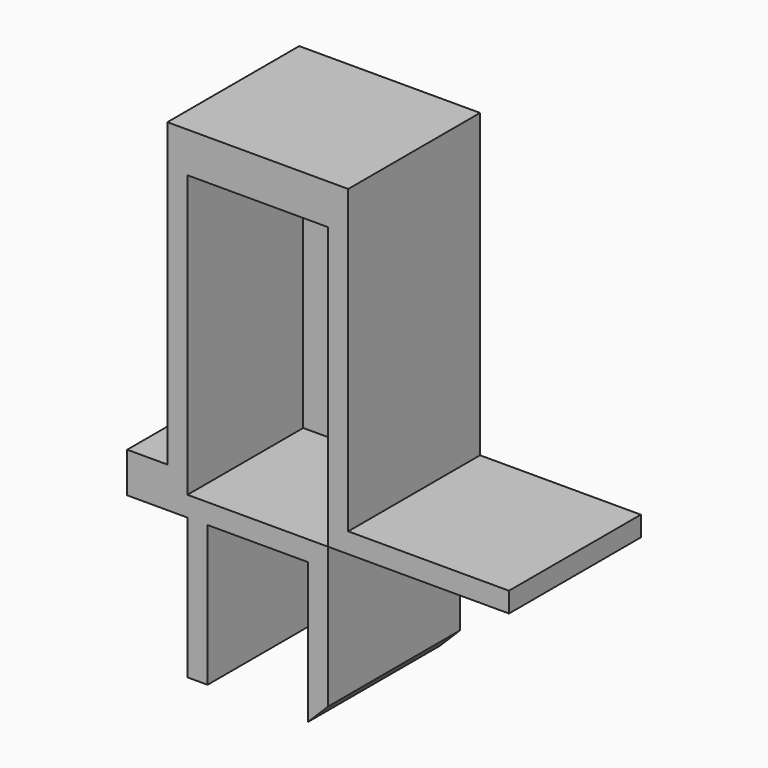
from build123d import *

# Parameters (mm, degrees)
SKETCH011_W      = 7
SKETCH011_H      = 14
EXTRUDE012_DEPTH = 10
EXTRUDE_DEPTH    = 8.2


with BuildPart() as extrude012:
    # Sketch011 → Extrude012 (new body)
    with BuildSketch(Plane.XZ.offset(4.5)):
        with Locations((0, 31)):
            Rectangle(SKETCH011_W, SKETCH011_H)
    extrude(amount=EXTRUDE012_DEPTH)


with BuildPart() as extrude012_1:
    # Extrude012 placement: moved
    add(extrude012.part.moved(Location((0, 7.6, 0))))


with BuildPart() as button001:
    # Sketch → Extrude (new body)
    with BuildSketch(Plane.XZ.offset(4.5)):
        Polygon((-6.5, 23), (-3.5, 23), (-3.5, 16), (-2.5, 16), (-2.5, 23), (2.5, 23), (2.5, 16), (3.5, 17), (3.5, 24), (12.5, 24), (12.5, 25), (4.5, 25), (4.5, 40), (-4.5, 40), (-4.5, 25), (-6.5, 25), align=None)
    extrude(amount=-EXTRUDE_DEPTH)


with BuildPart() as button001_1:
    # Extrude placement: moved
    add(button001.part.moved(Location((0, 0.4, 0))))

    # Cut001: cut Extrude012
    add(extrude012_1.part, mode=Mode.SUBTRACT)


solid = button001_1.part
